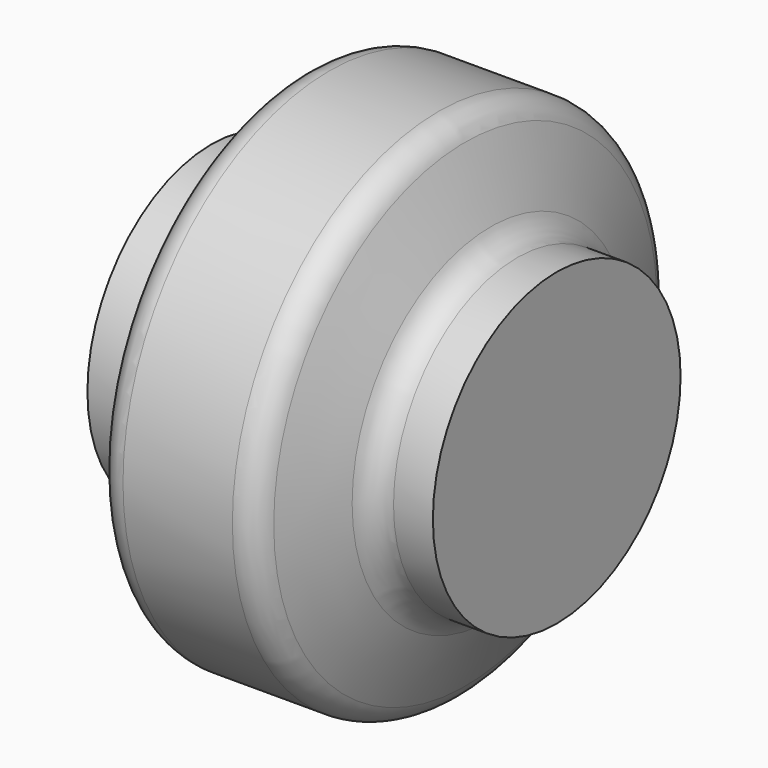
from build123d import *


with BuildPart() as f1:
    # F0 (on Top) → F1 (revolve)
    with BuildSketch(Plane.XY):
        with BuildLine():
            Line((131.669218, 0), (-91.342782, 0))
            Line((-91.342782, 0), (-91.342782, -99.949))
            Line((-91.342782, -99.949), (-65.942782, -99.949))
            ThreePointArc((-65.942782, -99.949), (-55.483238, -103.202239), (-48.714109, -111.814122))
            Line((-48.714109, -111.814122), (-32.371455, -154.631878))
            ThreePointArc((-32.371455, -154.631878), (-25.602327, -163.243761), (-15.142782, -166.497))
            Line((-15.142782, -166.497), (55.469218, -166.497))
            ThreePointArc((55.469218, -166.497), (65.928762, -163.243761), (72.697891, -154.631878))
            Line((72.697891, -154.631878), (89.040545, -111.814122))
            ThreePointArc((89.040545, -111.814122), (95.809673, -103.202239), (106.269218, -99.949))
            Line((106.269218, -99.949), (131.669218, -99.949))
            Line((131.669218, -99.949), (131.669218, 0))
        make_face()
    revolve(axis=Axis((20.163218, 0, 0), (1, 0, 0)))


solid = f1.part
